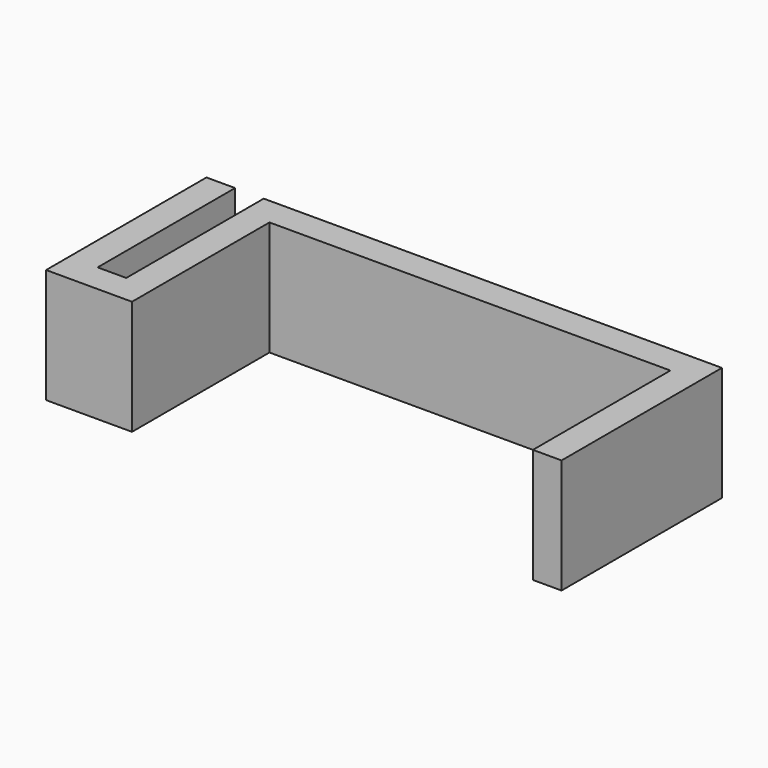
from build123d import *

# Parameters (mm, degrees)
F0_W     = 6.35
F0_H     = 38.1
F1_DEPTH = 25.4


with BuildPart() as f1:
    # F0 (on Top) → F1 (new body)
    with BuildSketch(Plane.XY):
        with Locations((-60.325, 6.35)):
            Rectangle(F0_W, F0_H)
        Polygon((-63.5, -19.05), (-50.8, -19.05), (-50.8, -12.7), (-57.15, -12.7), (-63.5, -12.7), align=None)
        Polygon((-50.8, -19.05), (-44.45, -19.05), (-44.45, 19.05), (-50.8, 19.05), (-50.8, -12.7), align=None)
        Polygon((-44.45, 19.05), (44.45, 19.05), (44.45, 25.4), (-50.8, 25.4), (-50.8, 19.05), align=None)
        Polygon((44.45, 19.05), (44.45, -19.05), (50.8, -19.05), (50.8, 25.4), (44.45, 25.4), align=None)
    extrude(amount=F1_DEPTH)


solid = f1.part
